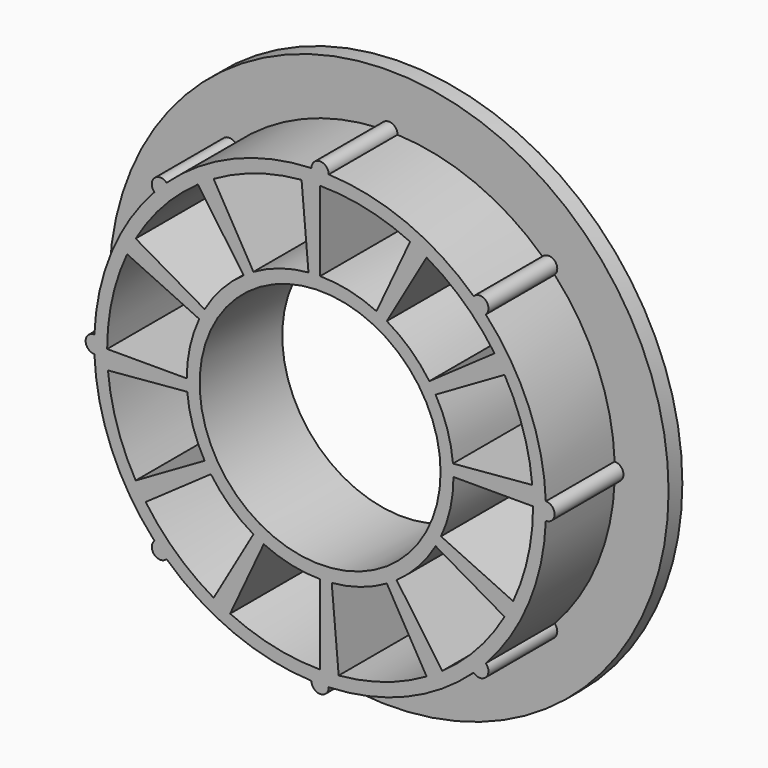
from build123d import *

# Parameters (mm, degrees)
F0_R     = 26.25
F0_R_2   = 14
F1_DEPTH = 10
F2_R     = 32.5
F2_R_2   = 14
F3_DEPTH = 2
F4_R     = 1
F5_DEPTH = 10
F7_DEPTH = 25


with BuildPart() as f1:
    # F0 (on Front) → F1 (new body)
    with BuildSketch(Plane.XZ):
        Circle(F0_R)
        Circle(F0_R_2, mode=Mode.SUBTRACT)
    extrude(amount=F1_DEPTH)

    # F2 (on Front) → F3 (join)
    with BuildSketch(Plane.XZ):
        Circle(F2_R)
        Circle(F2_R_2, mode=Mode.SUBTRACT)
    extrude(amount=-F3_DEPTH)

    # F4 (on face) → F5 (join, through all)
    with BuildSketch(Plane.XZ):
        with Locations((0, 26.25)):
            Circle(F4_R)
        with Locations((26.25, 0)):
            Circle(F4_R)
        with Locations((0, -26.25)):
            Circle(F4_R)
        with Locations((-26.25, 0)):
            Circle(F4_R)
        with Locations((-18.561553, 18.561553)):
            Circle(F4_R)
        with Locations((-18.561553, -18.561553)):
            Circle(F4_R)
        with Locations((18.561553, -18.561553)):
            Circle(F4_R)
        with Locations((18.561553, 18.561553)):
            Circle(F4_R)
    extrude(amount=F5_DEPTH)

    # F6 (on face) → F7 (cut)
    with BuildSketch(Plane.XZ.offset(10)):
        with BuildLine():
            ThreePointArc((-24.655819, -2.157105), (-23.604495, -7.442469), (-21.434129, -12.375))
            Line((-21.434129, -12.375), (-13.423394, -7.75))
            ThreePointArc((-13.423394, -7.75), (-14.782613, -4.66094), (-15.441018, -1.350914))
            Line((-15.441018, -1.350914), (-24.655819, -2.157105))
        make_face()
        with BuildLine():
            ThreePointArc((-20.274013, -14.196017), (-16.720858, -18.247614), (-12.375, -21.434129))
            Line((-12.375, -21.434129), (-7.75, -13.423394))
            ThreePointArc((-7.75, -13.423394), (-10.471648, -11.427799), (-12.696857, -8.890435))
            Line((-12.696857, -8.890435), (-20.274013, -14.196017))
        make_face()
        with BuildLine():
            ThreePointArc((-10.459802, -22.431118), (-5.35688, -24.163326), (0, -24.75))
            Line((0, -24.75), (0, -15.5))
            ThreePointArc((0, -15.5), (-3.354814, -15.132588), (-6.550583, -14.047771))
            Line((-6.550583, -14.047771), (-10.459802, -22.431118))
        make_face()
        with BuildLine():
            ThreePointArc((2.157105, -24.655819), (7.442469, -23.604495), (12.375, -21.434129))
            Line((12.375, -21.434129), (7.75, -13.423394))
            ThreePointArc((7.75, -13.423394), (4.66094, -14.782613), (1.350914, -15.441018))
            Line((1.350914, -15.441018), (2.157105, -24.655819))
        make_face()
        with BuildLine():
            ThreePointArc((14.196017, -20.274013), (18.247614, -16.720858), (21.434129, -12.375))
            Line((21.434129, -12.375), (13.423394, -7.75))
            ThreePointArc((13.423394, -7.75), (11.427799, -10.471648), (8.890435, -12.696857))
            Line((8.890435, -12.696857), (14.196017, -20.274013))
        make_face()
        with BuildLine():
            ThreePointArc((22.431118, -10.459802), (24.163326, -5.35688), (24.75, 0))
            Line((24.75, 0), (15.5, 0))
            ThreePointArc((15.5, 0), (15.132588, -3.354814), (14.047771, -6.550583))
            Line((14.047771, -6.550583), (22.431118, -10.459802))
        make_face()
        with BuildLine():
            ThreePointArc((24.655819, 2.157105), (23.604495, 7.442469), (21.434129, 12.375))
            Line((21.434129, 12.375), (13.423394, 7.75))
            ThreePointArc((13.423394, 7.75), (14.782613, 4.66094), (15.441018, 1.350914))
            Line((15.441018, 1.350914), (24.655819, 2.157105))
        make_face()
        with BuildLine():
            ThreePointArc((20.274013, 14.196017), (16.720858, 18.247614), (12.375, 21.434129))
            Line((12.375, 21.434129), (7.75, 13.423394))
            ThreePointArc((7.75, 13.423394), (10.471648, 11.427799), (12.696857, 8.890435))
            Line((12.696857, 8.890435), (20.274013, 14.196017))
        make_face()
        with BuildLine():
            ThreePointArc((10.459802, 22.431118), (5.35688, 24.163326), (0, 24.75))
            Line((0, 24.75), (0, 15.5))
            ThreePointArc((0, 15.5), (3.354814, 15.132588), (6.550583, 14.047771))
            Line((6.550583, 14.047771), (10.459802, 22.431118))
        make_face()
        with BuildLine():
            ThreePointArc((-2.157105, 24.655819), (-7.442469, 23.604495), (-12.375, 21.434129))
            Line((-12.375, 21.434129), (-7.75, 13.423394))
            ThreePointArc((-7.75, 13.423394), (-4.66094, 14.782613), (-1.350914, 15.441018))
            Line((-1.350914, 15.441018), (-2.157105, 24.655819))
        make_face()
        with BuildLine():
            ThreePointArc((-14.196017, 20.274013), (-18.247614, 16.720858), (-21.434129, 12.375))
            Line((-21.434129, 12.375), (-13.423394, 7.75))
            ThreePointArc((-13.423394, 7.75), (-11.427799, 10.471648), (-8.890435, 12.696857))
            Line((-8.890435, 12.696857), (-14.196017, 20.274013))
        make_face()
        with BuildLine():
            ThreePointArc((-22.431118, 10.459802), (-24.163326, 5.35688), (-24.75, 0))
            Line((-24.75, 0), (-15.5, 0))
            ThreePointArc((-15.5, 0), (-15.132588, 3.354814), (-14.047771, 6.550583))
            Line((-14.047771, 6.550583), (-22.431118, 10.459802))
        make_face()
    extrude(amount=-F7_DEPTH, mode=Mode.SUBTRACT)


solid = f1.part
